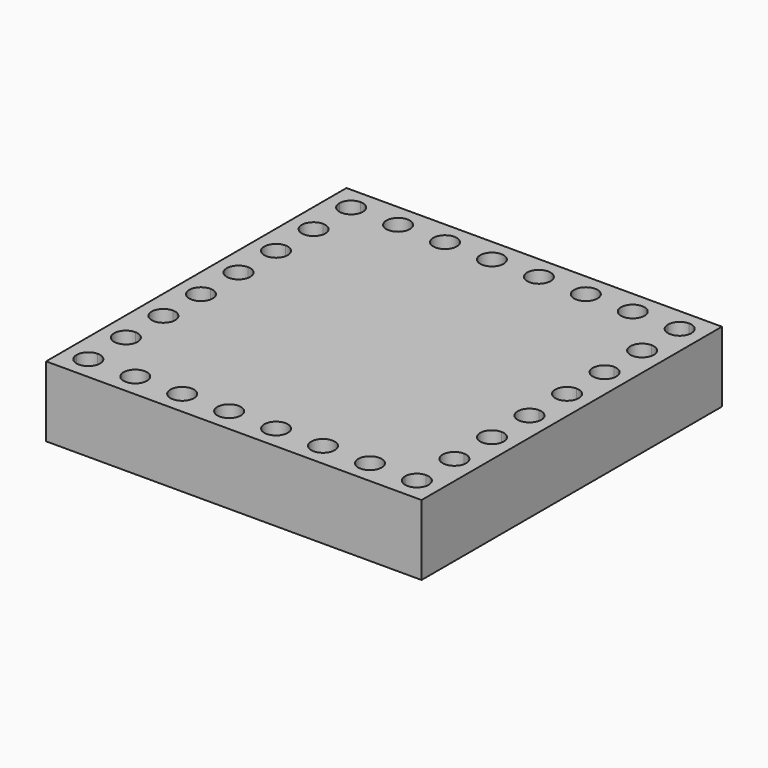
from build123d import *

# Parameters (mm, degrees)
F1_DEPTH = 6.35
F2_W     = 50.8
F2_H     = 50.8
F3_DEPTH = 3.175


with BuildPart() as f1:
    # F0 (on Top) → F1 (new body)
    with BuildSketch(Plane.XY):
        with BuildLine():
            Line((25.4, 22.225), (25.4, 25.4))
            Line((25.4, 25.4), (22.225, 25.4))
            Line((22.225, 25.4), (22.225, 23.8125))
            ThreePointArc((22.225, 23.8125), (23.3475320151, 23.3475320151), (23.8125, 22.225))
            Line((23.8125, 22.225), (25.4, 22.225))
        make_face()
        with BuildLine():
            Line((22.225, 23.8125), (22.225, 25.4))
            Line((22.225, 25.4), (-22.225, 25.4))
            Line((-22.225, 25.4), (-22.225, 23.8125))
            ThreePointArc((-22.225, 23.8125), (-21.1024679849, 23.3475320151), (-20.6375, 22.225))
            Line((-20.6375, 22.225), (-17.4625, 22.225))
            ThreePointArc((-17.4625, 22.225), (-15.875, 23.8125), (-14.2875, 22.225))
            Line((-14.2875, 22.225), (-11.1125, 22.225))
            ThreePointArc((-11.1125, 22.225), (-9.525, 23.8125), (-7.9375, 22.225))
            Line((-7.9375, 22.225), (-4.7625, 22.225))
            ThreePointArc((-4.7625, 22.225), (-3.175, 23.8125), (-1.5875, 22.225))
            Line((-1.5875, 22.225), (1.5875, 22.225))
            ThreePointArc((1.5875, 22.225), (3.175, 23.8125), (4.7625, 22.225))
            Line((4.7625, 22.225), (7.9375, 22.225))
            ThreePointArc((7.9375, 22.225), (9.525, 23.8125), (11.1125, 22.225))
            Line((11.1125, 22.225), (14.2875, 22.225))
            ThreePointArc((14.2875, 22.225), (15.875, 23.8125), (17.4625, 22.225))
            Line((17.4625, 22.225), (20.6375, 22.225))
            ThreePointArc((20.6375, 22.225), (21.1024679849, 23.3475320151), (22.225, 23.8125))
        make_face()
        with BuildLine():
            Line((25.4, -22.225), (25.4, 22.225))
            Line((25.4, 22.225), (23.8125, 22.225))
            ThreePointArc((23.8125, 22.225), (23.3475320151, 21.1024679849), (22.225, 20.6375))
            Line((22.225, 20.6375), (22.225, 17.4625))
            ThreePointArc((22.225, 17.4625), (23.3475320151, 16.9975320151), (23.8125, 15.875))
            ThreePointArc((23.8125, 15.875), (23.3475320151, 14.7524679849), (22.225, 14.2875))
            Line((22.225, 14.2875), (22.225, 11.1125))
            ThreePointArc((22.225, 11.1125), (23.3475320151, 10.6475320151), (23.8125, 9.525))
            ThreePointArc((23.8125, 9.525), (23.3475320151, 8.4024679849), (22.225, 7.9375))
            Line((22.225, 7.9375), (22.225, 4.7625))
            ThreePointArc((22.225, 4.7625), (23.3475320151, 4.2975320151), (23.8125, 3.175))
            ThreePointArc((23.8125, 3.175), (23.3475320151, 2.0524679849), (22.225, 1.5875))
            Line((22.225, 1.5875), (22.225, -1.5875))
            ThreePointArc((22.225, -1.5875), (23.3475320151, -2.0524679849), (23.8125, -3.175))
            ThreePointArc((23.8125, -3.175), (23.3475320151, -4.2975320151), (22.225, -4.7625))
            Line((22.225, -4.7625), (22.225, -7.9375))
            ThreePointArc((22.225, -7.9375), (23.3475320151, -8.4024679849), (23.8125, -9.525))
            ThreePointArc((23.8125, -9.525), (23.3475320151, -10.6475320151), (22.225, -11.1125))
            Line((22.225, -11.1125), (22.225, -14.2875))
            ThreePointArc((22.225, -14.2875), (23.3475320151, -14.7524679849), (23.8125, -15.875))
            ThreePointArc((23.8125, -15.875), (23.3475320151, -16.9975320151), (22.225, -17.4625))
            Line((22.225, -17.4625), (22.225, -20.6375))
            ThreePointArc((22.225, -20.6375), (23.3475320151, -21.1024679849), (23.8125, -22.225))
            Line((23.8125, -22.225), (25.4, -22.225))
        make_face()
        with BuildLine():
            Line((-22.225, 23.8125), (-22.225, 25.4))
            Line((-22.225, 25.4), (-25.4, 25.4))
            Line((-25.4, 25.4), (-25.4, 22.225))
            Line((-25.4, 22.225), (-23.8125, 22.225))
            ThreePointArc((-23.8125, 22.225), (-23.3475320151, 23.3475320151), (-22.225, 23.8125))
        make_face()
        with BuildLine():
            Line((25.4, -25.4), (25.4, -22.225))
            Line((25.4, -22.225), (23.8125, -22.225))
            ThreePointArc((23.8125, -22.225), (23.3475320151, -23.3475320151), (22.225, -23.8125))
            Line((22.225, -23.8125), (22.225, -25.4))
            Line((22.225, -25.4), (25.4, -25.4))
        make_face()
        with BuildLine():
            Line((-23.8125, 22.225), (-25.4, 22.225))
            Line((-25.4, 22.225), (-25.4, 15.875))
            Line((-25.4, 15.875), (-25.4, 9.525))
            Line((-25.4, 9.525), (-25.4, 3.175))
            Line((-25.4, 3.175), (-25.4, -3.175))
            Line((-25.4, -3.175), (-25.4, -9.525))
            Line((-25.4, -9.525), (-25.4, -15.875))
            Line((-25.4, -15.875), (-25.4, -22.225))
            Line((-25.4, -22.225), (-23.8125, -22.225))
            ThreePointArc((-23.8125, -22.225), (-23.3475320151, -21.1024679849), (-22.225, -20.6375))
            Line((-22.225, -20.6375), (-22.225, -17.4625))
            ThreePointArc((-22.225, -17.4625), (-23.8125, -15.875), (-22.225, -14.2875))
            Line((-22.225, -14.2875), (-22.225, -11.1125))
            ThreePointArc((-22.225, -11.1125), (-23.8125, -9.525), (-22.225, -7.9375))
            Line((-22.225, -7.9375), (-22.225, -4.7625))
            ThreePointArc((-22.225, -4.7625), (-23.8125, -3.175), (-22.225, -1.5875))
            Line((-22.225, -1.5875), (-22.225, 1.5875))
            ThreePointArc((-22.225, 1.5875), (-23.8125, 3.175), (-22.225, 4.7625))
            Line((-22.225, 4.7625), (-22.225, 7.9375))
            ThreePointArc((-22.225, 7.9375), (-23.8125, 9.525), (-22.225, 11.1125))
            Line((-22.225, 11.1125), (-22.225, 14.2875))
            ThreePointArc((-22.225, 14.2875), (-23.8125, 15.875), (-22.225, 17.4625))
            Line((-22.225, 17.4625), (-22.225, 20.6375))
            ThreePointArc((-22.225, 20.6375), (-23.3475320151, 21.1024679849), (-23.8125, 22.225))
        make_face()
        with BuildLine():
            Line((15.875, -25.4), (22.225, -25.4))
            Line((22.225, -25.4), (22.225, -23.8125))
            ThreePointArc((22.225, -23.8125), (21.1024679849, -23.3475320151), (20.6375, -22.225))
            Line((20.6375, -22.225), (17.4625, -22.225))
            ThreePointArc((17.4625, -22.225), (15.875, -23.8125), (14.2875, -22.225))
            Line((14.2875, -22.225), (11.1125, -22.225))
            ThreePointArc((11.1125, -22.225), (9.525, -23.8125), (7.9375, -22.225))
            Line((7.9375, -22.225), (4.7625, -22.225))
            ThreePointArc((4.7625, -22.225), (3.175, -23.8125), (1.5875, -22.225))
            Line((1.5875, -22.225), (-1.5875, -22.225))
            ThreePointArc((-1.5875, -22.225), (-3.175, -23.8125), (-4.7625, -22.225))
            Line((-4.7625, -22.225), (-7.9375, -22.225))
            ThreePointArc((-7.9375, -22.225), (-9.525, -23.8125), (-11.1125, -22.225))
            Line((-11.1125, -22.225), (-14.2875, -22.225))
            ThreePointArc((-14.2875, -22.225), (-15.875, -23.8125), (-17.4625, -22.225))
            Line((-17.4625, -22.225), (-20.6375, -22.225))
            ThreePointArc((-20.6375, -22.225), (-21.1024679849, -23.3475320151), (-22.225, -23.8125))
            Line((-22.225, -23.8125), (-22.225, -25.4))
            Line((-22.225, -25.4), (-15.875, -25.4))
            Line((-15.875, -25.4), (-9.525, -25.4))
            Line((-9.525, -25.4), (-3.175, -25.4))
            Line((-3.175, -25.4), (3.175, -25.4))
            Line((3.175, -25.4), (9.525, -25.4))
            Line((9.525, -25.4), (15.875, -25.4))
        make_face()
        with BuildLine():
            Line((-23.8125, -22.225), (-25.4, -22.225))
            Line((-25.4, -22.225), (-25.4, -25.4))
            Line((-25.4, -25.4), (-22.225, -25.4))
            Line((-22.225, -25.4), (-22.225, -23.8125))
            ThreePointArc((-22.225, -23.8125), (-23.3475320151, -23.3475320151), (-23.8125, -22.225))
        make_face()
        with BuildLine():
            ThreePointArc((22.225, 20.6375), (21.1024679849, 21.1024679849), (20.6375, 22.225))
            Line((20.6375, 22.225), (17.4625, 22.225))
            ThreePointArc((17.4625, 22.225), (15.875, 20.6375), (14.2875, 22.225))
            Line((14.2875, 22.225), (11.1125, 22.225))
            ThreePointArc((11.1125, 22.225), (9.525, 20.6375), (7.9375, 22.225))
            Line((7.9375, 22.225), (4.7625, 22.225))
            ThreePointArc((4.7625, 22.225), (3.175, 20.6375), (1.5875, 22.225))
            Line((1.5875, 22.225), (-1.5875, 22.225))
            ThreePointArc((-1.5875, 22.225), (-3.175, 20.6375), (-4.7625, 22.225))
            Line((-4.7625, 22.225), (-7.9375, 22.225))
            ThreePointArc((-7.9375, 22.225), (-9.525, 20.6375), (-11.1125, 22.225))
            Line((-11.1125, 22.225), (-14.2875, 22.225))
            ThreePointArc((-14.2875, 22.225), (-15.875, 20.6375), (-17.4625, 22.225))
            Line((-17.4625, 22.225), (-20.6375, 22.225))
            ThreePointArc((-20.6375, 22.225), (-21.1024679849, 21.1024679849), (-22.225, 20.6375))
            Line((-22.225, 20.6375), (-22.225, 17.4625))
            ThreePointArc((-22.225, 17.4625), (-21.1024679849, 16.9975320151), (-20.6375, 15.875))
            ThreePointArc((-20.6375, 15.875), (-21.1024679849, 14.7524679849), (-22.225, 14.2875))
            Line((-22.225, 14.2875), (-22.225, 11.1125))
            ThreePointArc((-22.225, 11.1125), (-21.1024679849, 10.6475320151), (-20.6375, 9.525))
            ThreePointArc((-20.6375, 9.525), (-21.1024679849, 8.4024679849), (-22.225, 7.9375))
            Line((-22.225, 7.9375), (-22.225, 4.7625))
            ThreePointArc((-22.225, 4.7625), (-21.1024679849, 4.2975320151), (-20.6375, 3.175))
            ThreePointArc((-20.6375, 3.175), (-21.1024679849, 2.0524679849), (-22.225, 1.5875))
            Line((-22.225, 1.5875), (-22.225, -1.5875))
            ThreePointArc((-22.225, -1.5875), (-21.1024679849, -2.0524679849), (-20.6375, -3.175))
            ThreePointArc((-20.6375, -3.175), (-21.1024679849, -4.2975320151), (-22.225, -4.7625))
            Line((-22.225, -4.7625), (-22.225, -7.9375))
            ThreePointArc((-22.225, -7.9375), (-21.1024679849, -8.4024679849), (-20.6375, -9.525))
            ThreePointArc((-20.6375, -9.525), (-21.1024679849, -10.6475320151), (-22.225, -11.1125))
            Line((-22.225, -11.1125), (-22.225, -14.2875))
            ThreePointArc((-22.225, -14.2875), (-21.1024679849, -14.7524679849), (-20.6375, -15.875))
            ThreePointArc((-20.6375, -15.875), (-21.1024679849, -16.9975320151), (-22.225, -17.4625))
            Line((-22.225, -17.4625), (-22.225, -20.6375))
            ThreePointArc((-22.225, -20.6375), (-21.1024679849, -21.1024679849), (-20.6375, -22.225))
            Line((-20.6375, -22.225), (-17.4625, -22.225))
            ThreePointArc((-17.4625, -22.225), (-15.875, -20.6375), (-14.2875, -22.225))
            Line((-14.2875, -22.225), (-11.1125, -22.225))
            ThreePointArc((-11.1125, -22.225), (-9.525, -20.6375), (-7.9375, -22.225))
            Line((-7.9375, -22.225), (-4.7625, -22.225))
            ThreePointArc((-4.7625, -22.225), (-3.175, -20.6375), (-1.5875, -22.225))
            Line((-1.5875, -22.225), (1.5875, -22.225))
            ThreePointArc((1.5875, -22.225), (3.175, -20.6375), (4.7625, -22.225))
            Line((4.7625, -22.225), (7.9375, -22.225))
            ThreePointArc((7.9375, -22.225), (9.525, -20.6375), (11.1125, -22.225))
            Line((11.1125, -22.225), (14.2875, -22.225))
            ThreePointArc((14.2875, -22.225), (15.875, -20.6375), (17.4625, -22.225))
            Line((17.4625, -22.225), (20.6375, -22.225))
            ThreePointArc((20.6375, -22.225), (21.1024679849, -21.1024679849), (22.225, -20.6375))
            Line((22.225, -20.6375), (22.225, -17.4625))
            ThreePointArc((22.225, -17.4625), (20.6375, -15.875), (22.225, -14.2875))
            Line((22.225, -14.2875), (22.225, -11.1125))
            ThreePointArc((22.225, -11.1125), (20.6375, -9.525), (22.225, -7.9375))
            Line((22.225, -7.9375), (22.225, -4.7625))
            ThreePointArc((22.225, -4.7625), (20.6375, -3.175), (22.225, -1.5875))
            Line((22.225, -1.5875), (22.225, 1.5875))
            ThreePointArc((22.225, 1.5875), (20.6375, 3.175), (22.225, 4.7625))
            Line((22.225, 4.7625), (22.225, 7.9375))
            ThreePointArc((22.225, 7.9375), (20.6375, 9.525), (22.225, 11.1125))
            Line((22.225, 11.1125), (22.225, 14.2875))
            ThreePointArc((22.225, 14.2875), (20.6375, 15.875), (22.225, 17.4625))
            Line((22.225, 17.4625), (22.225, 20.6375))
        make_face()
    extrude(amount=F1_DEPTH)

    # F2 (on face) → F3 (join)
    with BuildSketch(Plane(origin=(0, 0, 0), x_dir=(1, 0, 0), z_dir=(0, 0, -1))):
        Rectangle(F2_W, F2_H)
    extrude(amount=F3_DEPTH)


solid = f1.part
